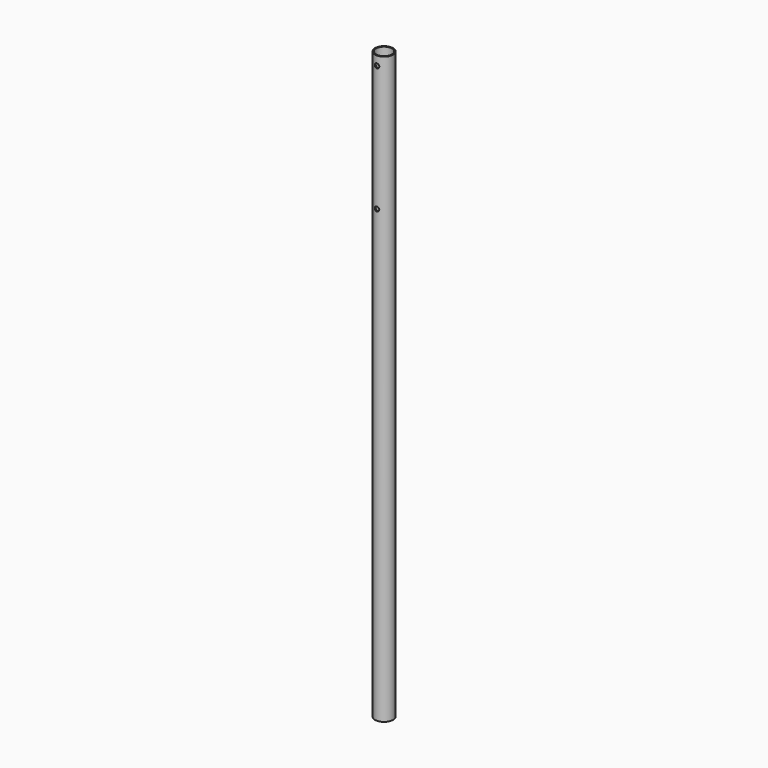
from build123d import *

# Parameters (mm, degrees)
F0_R     = 12.7
F0_R_2   = 11.2
F1_DEPTH = 825.5
F2_R     = 3.175
F3_DEPTH = 12.7


with BuildPart() as f1:
    # F0 (on Top) → F1 (new body)
    with BuildSketch(Plane.XY):
        Circle(F0_R)
        Circle(F0_R_2, mode=Mode.SUBTRACT)
    extrude(amount=F1_DEPTH)

    # F2 (on Front) → F3 (cut, symmetric)
    with BuildSketch(Plane.XZ):
        with Locations((0, 812.8)):
            Circle(F2_R)
        with Locations((0, 635)):
            Circle(F2_R)
    extrude(amount=F3_DEPTH, both=True, mode=Mode.SUBTRACT)


solid = f1.part
